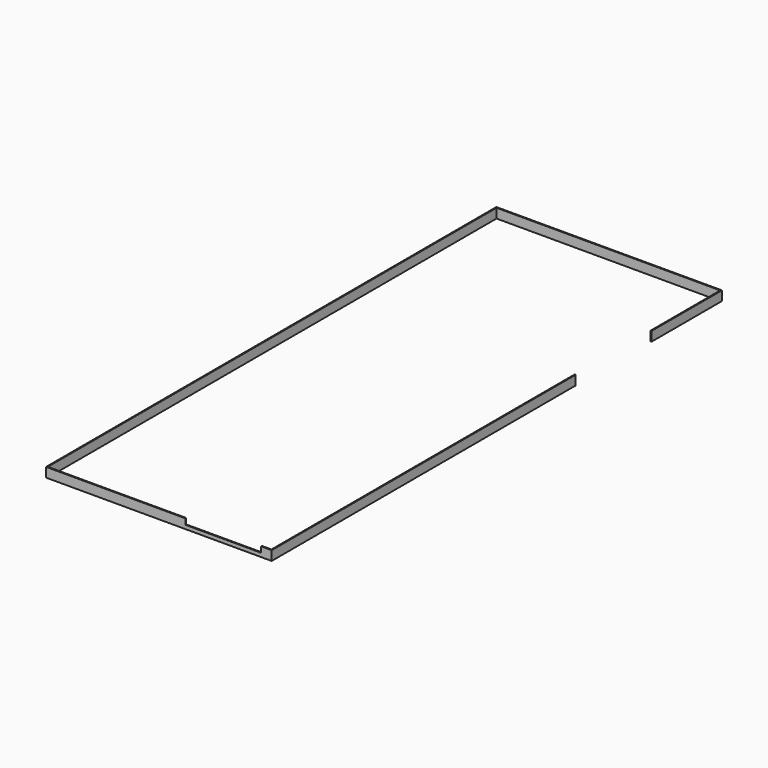
from build123d import *

# Parameters (mm, degrees)
F0_W     = 2380
F0_H     = 5938
F0_W_2   = 2360
F0_H_2   = 5918
F1_DEPTH = 100
F2_W     = 1000
F2_H     = 100
F3_DEPTH = 25
F4_W     = 800
F4_H     = 60
F5_DEPTH = 25


with BuildPart() as f1:
    # F0 (on Top) → F1 (new body)
    with BuildSketch(Plane.XY):
        with Locations((1190, 2969)):
            Rectangle(F0_W, F0_H)
        with Locations((1190, 2969)):
            Rectangle(F0_W_2, F0_H_2, mode=Mode.SUBTRACT)
    extrude(amount=F1_DEPTH)

    # F2 (on face) → F3 (cut)
    with BuildSketch(Plane.YZ.offset(2380)):
        with Locations((4510, 50)):
            Rectangle(F2_W, F2_H)
    extrude(amount=-F3_DEPTH, mode=Mode.SUBTRACT)

    # F4 (on face) → F5 (cut)
    with BuildSketch(Plane.XZ):
        with Locations((1870, 70)):
            Rectangle(F4_W, F4_H)
    extrude(amount=-F5_DEPTH, mode=Mode.SUBTRACT)


solid = f1.part
